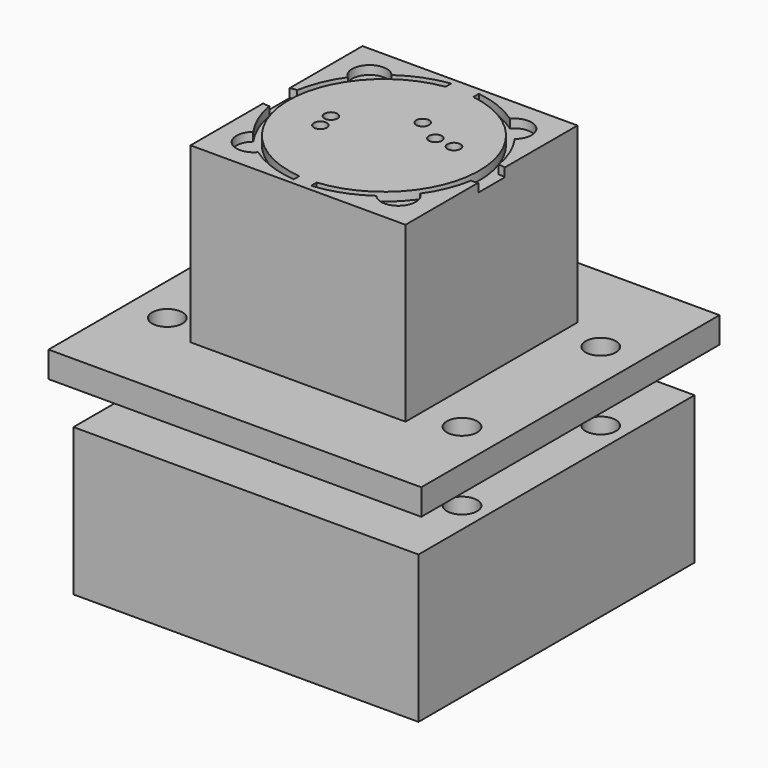
from build123d import *

# Parameters (mm, degrees)
F1_START = 5
F0_W     = 43
F0_H     = 43
F0_W_2   = 39.8
F0_H_2   = 39.8
F0_R     = 1.75
F0_R_2   = 0.75
F1_DEPTH = 3
F2_START = 8
F2_DEPTH = 20
F3_START = 27
F3_DEPTH = 1
F4_DEPTH = 17
F5_DEPTH = 2
F6_DEPTH = 22


with BuildPart() as f1:
    # F0 (on Top) → F1 (new body)
    with BuildSketch(Plane.XY.offset(F1_START)):
        Rectangle(F0_W, F0_H)
        Rectangle(F0_W_2, F0_H_2, mode=Mode.SUBTRACT)
        Rectangle(F0_W_2, F0_H_2)
        with Locations((-17, -10)):
            Circle(F0_R, mode=Mode.SUBTRACT)
        with Locations((17, -10)):
            Circle(F0_R, mode=Mode.SUBTRACT)
        with Locations((-17, 10)):
            Circle(F0_R, mode=Mode.SUBTRACT)
        with BuildLine():
            ThreePointArc((-12.4, -1.9078784028), (-13.8, 0), (-12.4, 1.9078784028))
            Line((-12.4, 1.9078784028), (-12.4, 12.4))
            Line((-12.4, 12.4), (12.4, 12.4))
            Line((12.4, 12.4), (12.4, 1.9078784028))
            ThreePointArc((12.4, 1.9078784028), (13.8, 0), (12.4, -1.9078784028))
            Line((12.4, -1.9078784028), (12.4, -12.4))
            Line((12.4, -12.4), (-12.4, -12.4))
            Line((-12.4, -12.4), (-12.4, -1.9078784028))
        make_face(mode=Mode.SUBTRACT)
        with Locations((17, 10)):
            Circle(F0_R, mode=Mode.SUBTRACT)
        with BuildLine():
            Line((-1.6, 9.8010221965), (-1.6, 10.8830142883))
            ThreePointArc((-1.6, 10.8830142883), (-10.995850317, -0.3021188612), (-1, -10.9544511501))
            Line((-1, -10.9544511501), (-1, -9.9675507654))
            Line((-1, -9.9675507654), (1, -9.9675507654))
            Line((1, -9.9675507654), (1, -10.9544511501))
            ThreePointArc((1, -10.9544511501), (10.995850317, -0.3021188612), (1.6, 10.8830142883))
            Line((1.6, 10.8830142883), (1.6, 9.8010221965))
            Line((1.6, 9.8010221965), (-1.6, 9.8010221965))
        make_face()
        with Locations((-5.710038, -2.029994)):
            Circle(F0_R_2, mode=Mode.SUBTRACT)
        with Locations((-6.090038, -0.039994)):
            Circle(F0_R_2, mode=Mode.SUBTRACT)
        with Locations((3.969962, 2.450006)):
            Circle(F0_R_2, mode=Mode.SUBTRACT)
        with Locations((1.159962, 4.130006)):
            Circle(F0_R_2, mode=Mode.SUBTRACT)
        with Locations((6.279962, 2.240006)):
            Circle(F0_R_2, mode=Mode.SUBTRACT)
        with BuildLine():
            ThreePointArc((-6.8148853303, 9.6331374918), (-4.331431189, 10.9762791444), (-1.6, 11.6910221965))
            Line((-1.6, 11.6910221965), (-1.6, 10.8830142883))
            Line((-1.6, 10.8830142883), (-1.6, 9.8010221965))
            Line((-1.6, 9.8010221965), (1.6, 9.8010221965))
            Line((1.6, 9.8010221965), (1.6, 10.8830142883))
            Line((1.6, 10.8830142883), (1.6, 11.6910221965))
            ThreePointArc((1.6, 11.6910221965), (4.331431189, 10.9762791444), (6.8148853303, 9.6331374918))
            ThreePointArc((6.8148853303, 9.6331374918), (9.7580735804, 9.7580735804), (9.6331374918, 6.8148853303))
            ThreePointArc((9.6331374918, 6.8148853303), (10.9017784836, 4.5156645019), (11.6305084746, 1.9928052145))
            ThreePointArc((11.6305084746, 1.9928052145), (12.0194026607, 1.987929192), (12.4, 1.9078784028))
            Line((12.4, 1.9078784028), (12.4, 12.4))
            Line((12.4, 12.4), (-12.4, 12.4))
            Line((-12.4, 12.4), (-12.4, 1.9078784028))
            ThreePointArc((-12.4, 1.9078784028), (-12.0194026607, 1.987929192), (-11.6305084746, 1.9928052145))
            ThreePointArc((-11.6305084746, 1.9928052145), (-10.9017784836, 4.5156645019), (-9.6331374918, 6.8148853303))
            ThreePointArc((-9.6331374918, 6.8148853303), (-9.7580735804, 9.7580735804), (-6.8148853303, 9.6331374918))
        make_face()
        with BuildLine():
            Line((-1, -9.9675507654), (-1, -10.9544511501))
            Line((-1, -10.9544511501), (-1, -11.7575507654))
            ThreePointArc((-1, -11.7575507654), (-4.0492457471, -11.0834836076), (-6.8148853303, -9.6331374918))
            ThreePointArc((-6.8148853303, -9.6331374918), (-9.7580735804, -9.7580735804), (-9.6331374918, -6.8148853303))
            ThreePointArc((-9.6331374918, -6.8148853303), (-10.9017784836, -4.5156645019), (-11.6305084746, -1.9928052145))
            ThreePointArc((-11.6305084746, -1.9928052145), (-12.0194026607, -1.987929192), (-12.4, -1.9078784028))
            Line((-12.4, -1.9078784028), (-12.4, -12.4))
            Line((-12.4, -12.4), (12.4, -12.4))
            Line((12.4, -12.4), (12.4, -1.9078784028))
            ThreePointArc((12.4, -1.9078784028), (12.0194026607, -1.987929192), (11.6305084746, -1.9928052145))
            ThreePointArc((11.6305084746, -1.9928052145), (10.9017784836, -4.5156645019), (9.6331374918, -6.8148853303))
            ThreePointArc((9.6331374918, -6.8148853303), (9.7580735804, -9.7580735804), (6.8148853303, -9.6331374918))
            ThreePointArc((6.8148853303, -9.6331374918), (4.0492457471, -11.0834836076), (1, -11.7575507654))
            Line((1, -11.7575507654), (1, -10.9544511501))
            Line((1, -10.9544511501), (1, -9.9675507654))
            Line((1, -9.9675507654), (-1, -9.9675507654))
        make_face()
        with BuildLine():
            Line((-1.6, 10.8830142883), (-1.6, 11.6910221965))
            ThreePointArc((-1.6, 11.6910221965), (-4.331431189, 10.9762791444), (-6.8148853303, 9.6331374918))
            ThreePointArc((-6.8148853303, 9.6331374918), (-9.7580735804, 9.7580735804), (-9.6331374918, 6.8148853303))
            ThreePointArc((-9.6331374918, 6.8148853303), (-10.9017784836, 4.5156645019), (-11.6305084746, 1.9928052145))
            ThreePointArc((-11.6305084746, 1.9928052145), (-12.0194026607, 1.987929192), (-12.4, 1.9078784028))
            Line((-12.4, 1.9078784028), (-12.4, -1.9078784028))
            ThreePointArc((-12.4, -1.9078784028), (-12.0194026607, -1.987929192), (-11.6305084746, -1.9928052145))
            ThreePointArc((-11.6305084746, -1.9928052145), (-10.9017784836, -4.5156645019), (-9.6331374918, -6.8148853303))
            ThreePointArc((-9.6331374918, -6.8148853303), (-9.7580735804, -9.7580735804), (-6.8148853303, -9.6331374918))
            ThreePointArc((-6.8148853303, -9.6331374918), (-4.0492457471, -11.0834836076), (-1, -11.7575507654))
            Line((-1, -11.7575507654), (-1, -10.9544511501))
            ThreePointArc((-1, -10.9544511501), (-10.995850317, -0.3021188612), (-1.6, 10.8830142883))
        make_face()
        with BuildLine():
            Line((1.6, 11.6910221965), (1.6, 10.8830142883))
            ThreePointArc((1.6, 10.8830142883), (10.995850317, -0.3021188612), (1, -10.9544511501))
            Line((1, -10.9544511501), (1, -11.7575507654))
            ThreePointArc((1, -11.7575507654), (4.0492457471, -11.0834836076), (6.8148853303, -9.6331374918))
            ThreePointArc((6.8148853303, -9.6331374918), (9.7580735804, -9.7580735804), (9.6331374918, -6.8148853303))
            ThreePointArc((9.6331374918, -6.8148853303), (10.9017784836, -4.5156645019), (11.6305084746, -1.9928052145))
            ThreePointArc((11.6305084746, -1.9928052145), (12.0194026607, -1.987929192), (12.4, -1.9078784028))
            Line((12.4, -1.9078784028), (12.4, 1.9078784028))
            ThreePointArc((12.4, 1.9078784028), (12.0194026607, 1.987929192), (11.6305084746, 1.9928052145))
            ThreePointArc((11.6305084746, 1.9928052145), (10.9017784836, 4.5156645019), (9.6331374918, 6.8148853303))
            ThreePointArc((9.6331374918, 6.8148853303), (9.7580735804, 9.7580735804), (6.8148853303, 9.6331374918))
            ThreePointArc((6.8148853303, 9.6331374918), (4.331431189, 10.9762791444), (1.6, 11.6910221965))
        make_face()
        with BuildLine():
            Line((-12.4, -1.9078784028), (-12.4, 1.9078784028))
            ThreePointArc((-12.4, 1.9078784028), (-13.8, 0), (-12.4, -1.9078784028))
        make_face()
        with BuildLine():
            ThreePointArc((12.4, -1.9078784028), (13.8, 0), (12.4, 1.9078784028))
            Line((12.4, 1.9078784028), (12.4, -1.9078784028))
        make_face()
    extrude(amount=F1_DEPTH)

    # F0 (on Top) → F2 (join)
    with BuildSketch(Plane.XY.offset(F2_START)):
        with BuildLine():
            ThreePointArc((-6.8148853303, 9.6331374918), (-4.331431189, 10.9762791444), (-1.6, 11.6910221965))
            Line((-1.6, 11.6910221965), (-1.6, 10.8830142883))
            Line((-1.6, 10.8830142883), (-1.6, 9.8010221965))
            Line((-1.6, 9.8010221965), (1.6, 9.8010221965))
            Line((1.6, 9.8010221965), (1.6, 10.8830142883))
            Line((1.6, 10.8830142883), (1.6, 11.6910221965))
            ThreePointArc((1.6, 11.6910221965), (4.331431189, 10.9762791444), (6.8148853303, 9.6331374918))
            ThreePointArc((6.8148853303, 9.6331374918), (9.7580735804, 9.7580735804), (9.6331374918, 6.8148853303))
            ThreePointArc((9.6331374918, 6.8148853303), (10.9017784836, 4.5156645019), (11.6305084746, 1.9928052145))
            ThreePointArc((11.6305084746, 1.9928052145), (12.0194026607, 1.987929192), (12.4, 1.9078784028))
            Line((12.4, 1.9078784028), (12.4, 12.4))
            Line((12.4, 12.4), (-12.4, 12.4))
            Line((-12.4, 12.4), (-12.4, 1.9078784028))
            ThreePointArc((-12.4, 1.9078784028), (-12.0194026607, 1.987929192), (-11.6305084746, 1.9928052145))
            ThreePointArc((-11.6305084746, 1.9928052145), (-10.9017784836, 4.5156645019), (-9.6331374918, 6.8148853303))
            ThreePointArc((-9.6331374918, 6.8148853303), (-9.7580735804, 9.7580735804), (-6.8148853303, 9.6331374918))
        make_face()
        with BuildLine():
            Line((-1.6, 9.8010221965), (-1.6, 10.8830142883))
            ThreePointArc((-1.6, 10.8830142883), (-10.995850317, -0.3021188612), (-1, -10.9544511501))
            Line((-1, -10.9544511501), (-1, -9.9675507654))
            Line((-1, -9.9675507654), (1, -9.9675507654))
            Line((1, -9.9675507654), (1, -10.9544511501))
            ThreePointArc((1, -10.9544511501), (10.995850317, -0.3021188612), (1.6, 10.8830142883))
            Line((1.6, 10.8830142883), (1.6, 9.8010221965))
            Line((1.6, 9.8010221965), (-1.6, 9.8010221965))
        make_face()
        with Locations((-5.710038, -2.029994)):
            Circle(F0_R_2, mode=Mode.SUBTRACT)
        with Locations((-6.090038, -0.039994)):
            Circle(F0_R_2, mode=Mode.SUBTRACT)
        with Locations((3.969962, 2.450006)):
            Circle(F0_R_2, mode=Mode.SUBTRACT)
        with Locations((1.159962, 4.130006)):
            Circle(F0_R_2, mode=Mode.SUBTRACT)
        with Locations((6.279962, 2.240006)):
            Circle(F0_R_2, mode=Mode.SUBTRACT)
        with BuildLine():
            Line((-1.6, 10.8830142883), (-1.6, 11.6910221965))
            ThreePointArc((-1.6, 11.6910221965), (-4.331431189, 10.9762791444), (-6.8148853303, 9.6331374918))
            ThreePointArc((-6.8148853303, 9.6331374918), (-9.7580735804, 9.7580735804), (-9.6331374918, 6.8148853303))
            ThreePointArc((-9.6331374918, 6.8148853303), (-10.9017784836, 4.5156645019), (-11.6305084746, 1.9928052145))
            ThreePointArc((-11.6305084746, 1.9928052145), (-12.0194026607, 1.987929192), (-12.4, 1.9078784028))
            Line((-12.4, 1.9078784028), (-12.4, -1.9078784028))
            ThreePointArc((-12.4, -1.9078784028), (-12.0194026607, -1.987929192), (-11.6305084746, -1.9928052145))
            ThreePointArc((-11.6305084746, -1.9928052145), (-10.9017784836, -4.5156645019), (-9.6331374918, -6.8148853303))
            ThreePointArc((-9.6331374918, -6.8148853303), (-9.7580735804, -9.7580735804), (-6.8148853303, -9.6331374918))
            ThreePointArc((-6.8148853303, -9.6331374918), (-4.0492457471, -11.0834836076), (-1, -11.7575507654))
            Line((-1, -11.7575507654), (-1, -10.9544511501))
            ThreePointArc((-1, -10.9544511501), (-10.995850317, -0.3021188612), (-1.6, 10.8830142883))
        make_face()
        with BuildLine():
            Line((-1, -9.9675507654), (-1, -10.9544511501))
            Line((-1, -10.9544511501), (-1, -11.7575507654))
            ThreePointArc((-1, -11.7575507654), (-4.0492457471, -11.0834836076), (-6.8148853303, -9.6331374918))
            ThreePointArc((-6.8148853303, -9.6331374918), (-9.7580735804, -9.7580735804), (-9.6331374918, -6.8148853303))
            ThreePointArc((-9.6331374918, -6.8148853303), (-10.9017784836, -4.5156645019), (-11.6305084746, -1.9928052145))
            ThreePointArc((-11.6305084746, -1.9928052145), (-12.0194026607, -1.987929192), (-12.4, -1.9078784028))
            Line((-12.4, -1.9078784028), (-12.4, -12.4))
            Line((-12.4, -12.4), (12.4, -12.4))
            Line((12.4, -12.4), (12.4, -1.9078784028))
            ThreePointArc((12.4, -1.9078784028), (12.0194026607, -1.987929192), (11.6305084746, -1.9928052145))
            ThreePointArc((11.6305084746, -1.9928052145), (10.9017784836, -4.5156645019), (9.6331374918, -6.8148853303))
            ThreePointArc((9.6331374918, -6.8148853303), (9.7580735804, -9.7580735804), (6.8148853303, -9.6331374918))
            ThreePointArc((6.8148853303, -9.6331374918), (4.0492457471, -11.0834836076), (1, -11.7575507654))
            Line((1, -11.7575507654), (1, -10.9544511501))
            Line((1, -10.9544511501), (1, -9.9675507654))
            Line((1, -9.9675507654), (-1, -9.9675507654))
        make_face()
        with BuildLine():
            Line((1.6, 11.6910221965), (1.6, 10.8830142883))
            ThreePointArc((1.6, 10.8830142883), (10.995850317, -0.3021188612), (1, -10.9544511501))
            Line((1, -10.9544511501), (1, -11.7575507654))
            ThreePointArc((1, -11.7575507654), (4.0492457471, -11.0834836076), (6.8148853303, -9.6331374918))
            ThreePointArc((6.8148853303, -9.6331374918), (9.7580735804, -9.7580735804), (9.6331374918, -6.8148853303))
            ThreePointArc((9.6331374918, -6.8148853303), (10.9017784836, -4.5156645019), (11.6305084746, -1.9928052145))
            ThreePointArc((11.6305084746, -1.9928052145), (12.0194026607, -1.987929192), (12.4, -1.9078784028))
            Line((12.4, -1.9078784028), (12.4, 1.9078784028))
            ThreePointArc((12.4, 1.9078784028), (12.0194026607, 1.987929192), (11.6305084746, 1.9928052145))
            ThreePointArc((11.6305084746, 1.9928052145), (10.9017784836, 4.5156645019), (9.6331374918, 6.8148853303))
            ThreePointArc((9.6331374918, 6.8148853303), (9.7580735804, 9.7580735804), (6.8148853303, 9.6331374918))
            ThreePointArc((6.8148853303, 9.6331374918), (4.331431189, 10.9762791444), (1.6, 11.6910221965))
        make_face()
    extrude(amount=F2_DEPTH)

    # F0 (on Top) → F3 (cut)
    with BuildSketch(Plane.XY.offset(F3_START)):
        with BuildLine():
            Line((-1.6, 10.8830142883), (-1.6, 11.6910221965))
            ThreePointArc((-1.6, 11.6910221965), (-4.331431189, 10.9762791444), (-6.8148853303, 9.6331374918))
            ThreePointArc((-6.8148853303, 9.6331374918), (-9.7580735804, 9.7580735804), (-9.6331374918, 6.8148853303))
            ThreePointArc((-9.6331374918, 6.8148853303), (-10.9017784836, 4.5156645019), (-11.6305084746, 1.9928052145))
            ThreePointArc((-11.6305084746, 1.9928052145), (-12.0194026607, 1.987929192), (-12.4, 1.9078784028))
            Line((-12.4, 1.9078784028), (-12.4, -1.9078784028))
            ThreePointArc((-12.4, -1.9078784028), (-12.0194026607, -1.987929192), (-11.6305084746, -1.9928052145))
            ThreePointArc((-11.6305084746, -1.9928052145), (-10.9017784836, -4.5156645019), (-9.6331374918, -6.8148853303))
            ThreePointArc((-9.6331374918, -6.8148853303), (-9.7580735804, -9.7580735804), (-6.8148853303, -9.6331374918))
            ThreePointArc((-6.8148853303, -9.6331374918), (-4.0492457471, -11.0834836076), (-1, -11.7575507654))
            Line((-1, -11.7575507654), (-1, -10.9544511501))
            ThreePointArc((-1, -10.9544511501), (-10.995850317, -0.3021188612), (-1.6, 10.8830142883))
        make_face()
        with BuildLine():
            Line((1.6, 11.6910221965), (1.6, 10.8830142883))
            ThreePointArc((1.6, 10.8830142883), (10.995850317, -0.3021188612), (1, -10.9544511501))
            Line((1, -10.9544511501), (1, -11.7575507654))
            ThreePointArc((1, -11.7575507654), (4.0492457471, -11.0834836076), (6.8148853303, -9.6331374918))
            ThreePointArc((6.8148853303, -9.6331374918), (9.7580735804, -9.7580735804), (9.6331374918, -6.8148853303))
            ThreePointArc((9.6331374918, -6.8148853303), (10.9017784836, -4.5156645019), (11.6305084746, -1.9928052145))
            ThreePointArc((11.6305084746, -1.9928052145), (12.0194026607, -1.987929192), (12.4, -1.9078784028))
            Line((12.4, -1.9078784028), (12.4, 1.9078784028))
            ThreePointArc((12.4, 1.9078784028), (12.0194026607, 1.987929192), (11.6305084746, 1.9928052145))
            ThreePointArc((11.6305084746, 1.9928052145), (10.9017784836, 4.5156645019), (9.6331374918, 6.8148853303))
            ThreePointArc((9.6331374918, 6.8148853303), (9.7580735804, 9.7580735804), (6.8148853303, 9.6331374918))
            ThreePointArc((6.8148853303, 9.6331374918), (4.331431189, 10.9762791444), (1.6, 11.6910221965))
        make_face()
    extrude(amount=F3_DEPTH, mode=Mode.SUBTRACT)


with BuildPart() as f4:
    # F0 (on Top) → F4 (new body)
    with BuildSketch(Plane.XY):
        Rectangle(F0_W_2, F0_H_2)
        with Locations((-17, -10)):
            Circle(F0_R, mode=Mode.SUBTRACT)
        with Locations((17, -10)):
            Circle(F0_R, mode=Mode.SUBTRACT)
        with Locations((-17, 10)):
            Circle(F0_R, mode=Mode.SUBTRACT)
        with BuildLine():
            ThreePointArc((-12.4, -1.9078784028), (-13.8, 0), (-12.4, 1.9078784028))
            Line((-12.4, 1.9078784028), (-12.4, 12.4))
            Line((-12.4, 12.4), (12.4, 12.4))
            Line((12.4, 12.4), (12.4, 1.9078784028))
            ThreePointArc((12.4, 1.9078784028), (13.8, 0), (12.4, -1.9078784028))
            Line((12.4, -1.9078784028), (12.4, -12.4))
            Line((12.4, -12.4), (-12.4, -12.4))
            Line((-12.4, -12.4), (-12.4, -1.9078784028))
        make_face(mode=Mode.SUBTRACT)
        with Locations((17, 10)):
            Circle(F0_R, mode=Mode.SUBTRACT)
        with BuildLine():
            ThreePointArc((-6.8148853303, 9.6331374918), (-4.331431189, 10.9762791444), (-1.6, 11.6910221965))
            Line((-1.6, 11.6910221965), (-1.6, 10.8830142883))
            Line((-1.6, 10.8830142883), (-1.6, 9.8010221965))
            Line((-1.6, 9.8010221965), (1.6, 9.8010221965))
            Line((1.6, 9.8010221965), (1.6, 10.8830142883))
            Line((1.6, 10.8830142883), (1.6, 11.6910221965))
            ThreePointArc((1.6, 11.6910221965), (4.331431189, 10.9762791444), (6.8148853303, 9.6331374918))
            ThreePointArc((6.8148853303, 9.6331374918), (9.7580735804, 9.7580735804), (9.6331374918, 6.8148853303))
            ThreePointArc((9.6331374918, 6.8148853303), (10.9017784836, 4.5156645019), (11.6305084746, 1.9928052145))
            ThreePointArc((11.6305084746, 1.9928052145), (12.0194026607, 1.987929192), (12.4, 1.9078784028))
            Line((12.4, 1.9078784028), (12.4, 12.4))
            Line((12.4, 12.4), (-12.4, 12.4))
            Line((-12.4, 12.4), (-12.4, 1.9078784028))
            ThreePointArc((-12.4, 1.9078784028), (-12.0194026607, 1.987929192), (-11.6305084746, 1.9928052145))
            ThreePointArc((-11.6305084746, 1.9928052145), (-10.9017784836, 4.5156645019), (-9.6331374918, 6.8148853303))
            ThreePointArc((-9.6331374918, 6.8148853303), (-9.7580735804, 9.7580735804), (-6.8148853303, 9.6331374918))
        make_face()
        with BuildLine():
            Line((-1, -9.9675507654), (-1, -10.9544511501))
            Line((-1, -10.9544511501), (-1, -11.7575507654))
            ThreePointArc((-1, -11.7575507654), (-4.0492457471, -11.0834836076), (-6.8148853303, -9.6331374918))
            ThreePointArc((-6.8148853303, -9.6331374918), (-9.7580735804, -9.7580735804), (-9.6331374918, -6.8148853303))
            ThreePointArc((-9.6331374918, -6.8148853303), (-10.9017784836, -4.5156645019), (-11.6305084746, -1.9928052145))
            ThreePointArc((-11.6305084746, -1.9928052145), (-12.0194026607, -1.987929192), (-12.4, -1.9078784028))
            Line((-12.4, -1.9078784028), (-12.4, -12.4))
            Line((-12.4, -12.4), (12.4, -12.4))
            Line((12.4, -12.4), (12.4, -1.9078784028))
            ThreePointArc((12.4, -1.9078784028), (12.0194026607, -1.987929192), (11.6305084746, -1.9928052145))
            ThreePointArc((11.6305084746, -1.9928052145), (10.9017784836, -4.5156645019), (9.6331374918, -6.8148853303))
            ThreePointArc((9.6331374918, -6.8148853303), (9.7580735804, -9.7580735804), (6.8148853303, -9.6331374918))
            ThreePointArc((6.8148853303, -9.6331374918), (4.0492457471, -11.0834836076), (1, -11.7575507654))
            Line((1, -11.7575507654), (1, -10.9544511501))
            Line((1, -10.9544511501), (1, -9.9675507654))
            Line((1, -9.9675507654), (-1, -9.9675507654))
        make_face()
        with BuildLine():
            Line((-1.6, 9.8010221965), (-1.6, 10.8830142883))
            ThreePointArc((-1.6, 10.8830142883), (-10.995850317, -0.3021188612), (-1, -10.9544511501))
            Line((-1, -10.9544511501), (-1, -9.9675507654))
            Line((-1, -9.9675507654), (1, -9.9675507654))
            Line((1, -9.9675507654), (1, -10.9544511501))
            ThreePointArc((1, -10.9544511501), (10.995850317, -0.3021188612), (1.6, 10.8830142883))
            Line((1.6, 10.8830142883), (1.6, 9.8010221965))
            Line((1.6, 9.8010221965), (-1.6, 9.8010221965))
        make_face()
        with Locations((-5.710038, -2.029994)):
            Circle(F0_R_2, mode=Mode.SUBTRACT)
        with Locations((-6.090038, -0.039994)):
            Circle(F0_R_2, mode=Mode.SUBTRACT)
        with Locations((3.969962, 2.450006)):
            Circle(F0_R_2, mode=Mode.SUBTRACT)
        with Locations((1.159962, 4.130006)):
            Circle(F0_R_2, mode=Mode.SUBTRACT)
        with Locations((6.279962, 2.240006)):
            Circle(F0_R_2, mode=Mode.SUBTRACT)
        with BuildLine():
            Line((-1.6, 10.8830142883), (-1.6, 11.6910221965))
            ThreePointArc((-1.6, 11.6910221965), (-4.331431189, 10.9762791444), (-6.8148853303, 9.6331374918))
            ThreePointArc((-6.8148853303, 9.6331374918), (-9.7580735804, 9.7580735804), (-9.6331374918, 6.8148853303))
            ThreePointArc((-9.6331374918, 6.8148853303), (-10.9017784836, 4.5156645019), (-11.6305084746, 1.9928052145))
            ThreePointArc((-11.6305084746, 1.9928052145), (-12.0194026607, 1.987929192), (-12.4, 1.9078784028))
            Line((-12.4, 1.9078784028), (-12.4, -1.9078784028))
            ThreePointArc((-12.4, -1.9078784028), (-12.0194026607, -1.987929192), (-11.6305084746, -1.9928052145))
            ThreePointArc((-11.6305084746, -1.9928052145), (-10.9017784836, -4.5156645019), (-9.6331374918, -6.8148853303))
            ThreePointArc((-9.6331374918, -6.8148853303), (-9.7580735804, -9.7580735804), (-6.8148853303, -9.6331374918))
            ThreePointArc((-6.8148853303, -9.6331374918), (-4.0492457471, -11.0834836076), (-1, -11.7575507654))
            Line((-1, -11.7575507654), (-1, -10.9544511501))
            ThreePointArc((-1, -10.9544511501), (-10.995850317, -0.3021188612), (-1.6, 10.8830142883))
        make_face()
        with BuildLine():
            Line((1.6, 11.6910221965), (1.6, 10.8830142883))
            ThreePointArc((1.6, 10.8830142883), (10.995850317, -0.3021188612), (1, -10.9544511501))
            Line((1, -10.9544511501), (1, -11.7575507654))
            ThreePointArc((1, -11.7575507654), (4.0492457471, -11.0834836076), (6.8148853303, -9.6331374918))
            ThreePointArc((6.8148853303, -9.6331374918), (9.7580735804, -9.7580735804), (9.6331374918, -6.8148853303))
            ThreePointArc((9.6331374918, -6.8148853303), (10.9017784836, -4.5156645019), (11.6305084746, -1.9928052145))
            ThreePointArc((11.6305084746, -1.9928052145), (12.0194026607, -1.987929192), (12.4, -1.9078784028))
            Line((12.4, -1.9078784028), (12.4, 1.9078784028))
            ThreePointArc((12.4, 1.9078784028), (12.0194026607, 1.987929192), (11.6305084746, 1.9928052145))
            ThreePointArc((11.6305084746, 1.9928052145), (10.9017784836, 4.5156645019), (9.6331374918, 6.8148853303))
            ThreePointArc((9.6331374918, 6.8148853303), (9.7580735804, 9.7580735804), (6.8148853303, 9.6331374918))
            ThreePointArc((6.8148853303, 9.6331374918), (4.331431189, 10.9762791444), (1.6, 11.6910221965))
        make_face()
        with BuildLine():
            Line((-12.4, -1.9078784028), (-12.4, 1.9078784028))
            ThreePointArc((-12.4, 1.9078784028), (-13.8, 0), (-12.4, -1.9078784028))
        make_face()
        with BuildLine():
            ThreePointArc((12.4, -1.9078784028), (13.8, 0), (12.4, 1.9078784028))
            Line((12.4, 1.9078784028), (12.4, -1.9078784028))
        make_face()
        with Locations((6.279962, 2.240006)):
            Circle(F0_R_2)
        with Locations((3.969962, 2.450006)):
            Circle(F0_R_2)
        with Locations((1.159962, 4.130006)):
            Circle(F0_R_2)
        with Locations((-6.090038, -0.039994)):
            Circle(F0_R_2)
        with Locations((-5.710038, -2.029994)):
            Circle(F0_R_2)
    extrude(amount=-F4_DEPTH)

    # F0 (on Top) → F5 (cut)
    with BuildSketch(Plane.XY):
        with BuildLine():
            Line((-1.6, 10.8830142883), (-1.6, 11.6910221965))
            ThreePointArc((-1.6, 11.6910221965), (-4.331431189, 10.9762791444), (-6.8148853303, 9.6331374918))
            ThreePointArc((-6.8148853303, 9.6331374918), (-9.7580735804, 9.7580735804), (-9.6331374918, 6.8148853303))
            ThreePointArc((-9.6331374918, 6.8148853303), (-10.9017784836, 4.5156645019), (-11.6305084746, 1.9928052145))
            ThreePointArc((-11.6305084746, 1.9928052145), (-12.0194026607, 1.987929192), (-12.4, 1.9078784028))
            Line((-12.4, 1.9078784028), (-12.4, -1.9078784028))
            ThreePointArc((-12.4, -1.9078784028), (-12.0194026607, -1.987929192), (-11.6305084746, -1.9928052145))
            ThreePointArc((-11.6305084746, -1.9928052145), (-10.9017784836, -4.5156645019), (-9.6331374918, -6.8148853303))
            ThreePointArc((-9.6331374918, -6.8148853303), (-9.7580735804, -9.7580735804), (-6.8148853303, -9.6331374918))
            ThreePointArc((-6.8148853303, -9.6331374918), (-4.0492457471, -11.0834836076), (-1, -11.7575507654))
            Line((-1, -11.7575507654), (-1, -10.9544511501))
            ThreePointArc((-1, -10.9544511501), (-10.995850317, -0.3021188612), (-1.6, 10.8830142883))
        make_face()
        with BuildLine():
            Line((-1.6, 9.8010221965), (-1.6, 10.8830142883))
            ThreePointArc((-1.6, 10.8830142883), (-10.995850317, -0.3021188612), (-1, -10.9544511501))
            Line((-1, -10.9544511501), (-1, -9.9675507654))
            Line((-1, -9.9675507654), (1, -9.9675507654))
            Line((1, -9.9675507654), (1, -10.9544511501))
            ThreePointArc((1, -10.9544511501), (10.995850317, -0.3021188612), (1.6, 10.8830142883))
            Line((1.6, 10.8830142883), (1.6, 9.8010221965))
            Line((1.6, 9.8010221965), (-1.6, 9.8010221965))
        make_face()
        with Locations((-5.710038, -2.029994)):
            Circle(F0_R_2, mode=Mode.SUBTRACT)
        with Locations((-6.090038, -0.039994)):
            Circle(F0_R_2, mode=Mode.SUBTRACT)
        with Locations((3.969962, 2.450006)):
            Circle(F0_R_2, mode=Mode.SUBTRACT)
        with Locations((1.159962, 4.130006)):
            Circle(F0_R_2, mode=Mode.SUBTRACT)
        with Locations((6.279962, 2.240006)):
            Circle(F0_R_2, mode=Mode.SUBTRACT)
        with BuildLine():
            Line((-12.4, -1.9078784028), (-12.4, 1.9078784028))
            ThreePointArc((-12.4, 1.9078784028), (-13.8, 0), (-12.4, -1.9078784028))
        make_face()
        with BuildLine():
            Line((1.6, 11.6910221965), (1.6, 10.8830142883))
            ThreePointArc((1.6, 10.8830142883), (10.995850317, -0.3021188612), (1, -10.9544511501))
            Line((1, -10.9544511501), (1, -11.7575507654))
            ThreePointArc((1, -11.7575507654), (4.0492457471, -11.0834836076), (6.8148853303, -9.6331374918))
            ThreePointArc((6.8148853303, -9.6331374918), (9.7580735804, -9.7580735804), (9.6331374918, -6.8148853303))
            ThreePointArc((9.6331374918, -6.8148853303), (10.9017784836, -4.5156645019), (11.6305084746, -1.9928052145))
            ThreePointArc((11.6305084746, -1.9928052145), (12.0194026607, -1.987929192), (12.4, -1.9078784028))
            Line((12.4, -1.9078784028), (12.4, 1.9078784028))
            ThreePointArc((12.4, 1.9078784028), (12.0194026607, 1.987929192), (11.6305084746, 1.9928052145))
            ThreePointArc((11.6305084746, 1.9928052145), (10.9017784836, 4.5156645019), (9.6331374918, 6.8148853303))
            ThreePointArc((9.6331374918, 6.8148853303), (9.7580735804, 9.7580735804), (6.8148853303, 9.6331374918))
            ThreePointArc((6.8148853303, 9.6331374918), (4.331431189, 10.9762791444), (1.6, 11.6910221965))
        make_face()
        with BuildLine():
            ThreePointArc((12.4, -1.9078784028), (13.8, 0), (12.4, 1.9078784028))
            Line((12.4, 1.9078784028), (12.4, -1.9078784028))
        make_face()
        with Locations((-5.710038, -2.029994)):
            Circle(F0_R_2)
        with Locations((-6.090038, -0.039994)):
            Circle(F0_R_2)
        with Locations((1.159962, 4.130006)):
            Circle(F0_R_2)
        with Locations((3.969962, 2.450006)):
            Circle(F0_R_2)
        with Locations((6.279962, 2.240006)):
            Circle(F0_R_2)
    extrude(amount=-F5_DEPTH, mode=Mode.SUBTRACT)

    # F0 (on Top) → F6 (cut)
    with BuildSketch(Plane.XY):
        with BuildLine():
            Line((-1.6, 9.8010221965), (-1.6, 10.8830142883))
            ThreePointArc((-1.6, 10.8830142883), (-10.995850317, -0.3021188612), (-1, -10.9544511501))
            Line((-1, -10.9544511501), (-1, -9.9675507654))
            Line((-1, -9.9675507654), (1, -9.9675507654))
            Line((1, -9.9675507654), (1, -10.9544511501))
            ThreePointArc((1, -10.9544511501), (10.995850317, -0.3021188612), (1.6, 10.8830142883))
            Line((1.6, 10.8830142883), (1.6, 9.8010221965))
            Line((1.6, 9.8010221965), (-1.6, 9.8010221965))
        make_face()
        with Locations((-5.710038, -2.029994)):
            Circle(F0_R_2, mode=Mode.SUBTRACT)
        with Locations((-6.090038, -0.039994)):
            Circle(F0_R_2, mode=Mode.SUBTRACT)
        with Locations((3.969962, 2.450006)):
            Circle(F0_R_2, mode=Mode.SUBTRACT)
        with Locations((1.159962, 4.130006)):
            Circle(F0_R_2, mode=Mode.SUBTRACT)
        with Locations((6.279962, 2.240006)):
            Circle(F0_R_2, mode=Mode.SUBTRACT)
        with Locations((-6.090038, -0.039994)):
            Circle(F0_R_2)
        with Locations((-5.710038, -2.029994)):
            Circle(F0_R_2)
        with Locations((1.159962, 4.130006)):
            Circle(F0_R_2)
        with Locations((3.969962, 2.450006)):
            Circle(F0_R_2)
        with Locations((6.279962, 2.240006)):
            Circle(F0_R_2)
    extrude(amount=-F6_DEPTH, mode=Mode.SUBTRACT)


solid = Compound([f1.part, f4.part])
